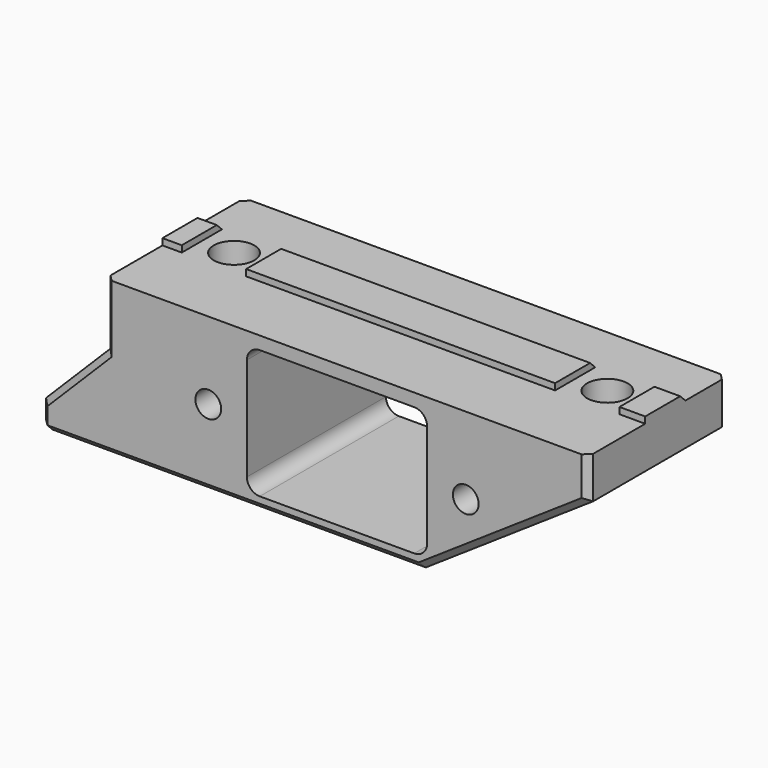
from build123d import *

# Parameters (mm, degrees)
BOX007_W          = 10
BOX007_H          = 10
BOX007_DEPTH      = 10
BOX008_W          = 10
BOX008_H          = 10
BOX008_DEPTH      = 10
CYLINDER003_R     = 1.6
CYLINDER003_DEPTH = 30
CYLINDER002_R     = 1.6
CYLINDER002_DEPTH = 30
CYLINDER001_R     = 2
CYLINDER001_DEPTH = 7
CYLINDER_R        = 2
CYLINDER_DEPTH    = 7
BOX_W             = 28
BOX_H             = 30
BOX_DEPTH         = 20
FILLET_R          = 2
CYLINDER005_R     = 3.15
CYLINDER005_DEPTH = 30
CYLINDER004_R     = 6
CYLINDER004_DEPTH = 8
CYLINDER007_R     = 6
CYLINDER007_DEPTH = 21
CYLINDER006_R     = 3.15
CYLINDER006_DEPTH = 30
BOX003_W          = 75
BOX003_H          = 27
BOX003_DEPTH      = 24
CHAMFER002_SIZE2  = 26
CHAMFER002_SIZE   = 17.5
BOX004_W          = 11
BOX004_H          = 27
BOX004_DEPTH      = 14
CHAMFER_SIZE      = 10
BOX005_W          = 75
BOX005_H          = 7.8
BOX005_DEPTH      = 2
CHAMFER003_SIZE   = 1
CHAMFER004_SIZE   = 1


with BuildPart() as cube007:
    # Box007 → Box007 (new body)
    with BuildSketch(Plane(origin=(-20, 10, 26), x_dir=(1, 0, 0), z_dir=(0, 0, 1))):
        with Locations((5, 5)):
            Rectangle(BOX007_W, BOX007_H)
    extrude(amount=BOX007_DEPTH)


with BuildPart() as fusion002011:
    # Box008 → Box008 (new body)
    with BuildSketch(Plane(origin=(38, 10, 26), x_dir=(1, 0, 0), z_dir=(0, 0, 1))):
        with Locations((5, 5)):
            Rectangle(BOX008_W, BOX008_H)
    extrude(amount=BOX008_DEPTH)

    # Fusion002011: union Cube007
    add(cube007.part)


with BuildPart() as cylinder003:
    # Cylinder003 → Cylinder003 (new body)
    with BuildSketch(Plane(origin=(-20, 0, 17), x_dir=(1, 0, 0), z_dir=(0, 1, 0))):
        Circle(CYLINDER003_R)
    extrude(amount=CYLINDER003_DEPTH)


with BuildPart() as cylinder002:
    # Cylinder002 → Cylinder002 (new body)
    with BuildSketch(Plane(origin=(20, 0, 17), x_dir=(1, 0, 0), z_dir=(0, 1, 0))):
        Circle(CYLINDER002_R)
    extrude(amount=CYLINDER002_DEPTH)


with BuildPart() as cylinder001:
    # Cylinder001 → Cylinder001 (new body)
    with BuildSketch(Plane(origin=(20, 0, 17), x_dir=(1, 0, 0), z_dir=(0, 1, 0))):
        Circle(CYLINDER001_R)
    extrude(amount=CYLINDER001_DEPTH)


with BuildPart() as cylinder:
    # Cylinder → Cylinder (new body)
    with BuildSketch(Plane(origin=(-20, 0, 17), x_dir=(1, 0, 0), z_dir=(0, 1, 0))):
        Circle(CYLINDER_R)
    extrude(amount=CYLINDER_DEPTH)


with BuildPart() as plug_slot:
    # Box → Box (new body)
    with BuildSketch(Plane(origin=(-14, 0, 7), x_dir=(1, 0, 0), z_dir=(0, 0, 1))):
        with Locations((14, 15)):
            Rectangle(BOX_W, BOX_H)
    extrude(amount=BOX_DEPTH)

    # Fillet
    fillet_edges = [plug_slot.edges().sort_by_distance(p)[0] for p in [
        (-14, 15, 27),
        (-14, 15, 7),
        (14, 15, 27),
        (14, 15, 7),
    ]]
    fillet(fillet_edges, radius=FILLET_R)

    # Fusion: union Cylinder003, Cylinder002, Cylinder001, Cylinder
    add(cylinder003.part)
    add(cylinder002.part)
    add(cylinder001.part)
    add(cylinder.part)


with BuildPart() as plug_slot_1:
    # Fusion placement: moved
    add(plug_slot.part.moved(Location((13, 0, -3))))


with BuildPart() as cylinder005:
    # Cylinder005 → Cylinder005 (new body)
    with BuildSketch(Plane(origin=(0, 15, 0), x_dir=(1, 0, 0), z_dir=(0, 0, 1))):
        Circle(CYLINDER005_R)
    extrude(amount=CYLINDER005_DEPTH)


with BuildPart() as fusion002009:
    # Cylinder004 → Cylinder004 (new body)
    with BuildSketch(Plane(origin=(0, 15, 0), x_dir=(1, 0, 0), z_dir=(0, 0, 1))):
        Circle(CYLINDER004_R)
    extrude(amount=CYLINDER004_DEPTH)

    # Fusion002009: union Cylinder005
    add(cylinder005.part)


with BuildPart() as fusion002009_1:
    # Fusion002009 placement: moved
    add(fusion002009.part.moved(Location((-15, 0, 0))))


with BuildPart() as cylinder007:
    # Cylinder007 → Cylinder007 (new body)
    with BuildSketch(Plane(origin=(43, 15, 0), x_dir=(1, 0, 0), z_dir=(0, 0, 1))):
        Circle(CYLINDER007_R)
    extrude(amount=CYLINDER007_DEPTH)


with BuildPart() as fusion002010:
    # Cylinder006 → Cylinder006 (new body)
    with BuildSketch(Plane(origin=(43, 15, 0), x_dir=(1, 0, 0), z_dir=(0, 0, 1))):
        Circle(CYLINDER006_R)
    extrude(amount=CYLINDER006_DEPTH)

    # Fusion002005: union Cylinder007
    add(cylinder007.part)

    # Fusion002010: union Fusion002009
    add(fusion002009_1.part)


with BuildPart() as chamfer002:
    # Box003 → Box003 (new body)
    with BuildSketch(Plane(origin=(-23, 0, 2), x_dir=(1, 0, 0), z_dir=(0, 0, 1))):
        with Locations((37.5, 13.5)):
            Rectangle(BOX003_W, BOX003_H)
    extrude(amount=BOX003_DEPTH)

    # Chamfer002
    chamfer002_edges = [chamfer002.edges().sort_by_distance(p)[0] for p in [
        (52, 13.5, 2),
    ]]
    chamfer002_side = chamfer002.faces().sort_by_distance((52, 13.5, 14))[0]
    chamfer(chamfer002_edges, length=CHAMFER002_SIZE, length2=CHAMFER002_SIZE2, reference=chamfer002_side)


with BuildPart() as chamfer_body:
    # Box004 → Box004 (new body)
    with BuildSketch(Plane(origin=(-33, 0, 2), x_dir=(1, 0, 0), z_dir=(0, 0, 1))):
        with Locations((5.5, 13.5)):
            Rectangle(BOX004_W, BOX004_H)
    extrude(amount=BOX004_DEPTH)

    # Chamfer
    chamfer_edges = [chamfer_body.edges().sort_by_distance(p)[0] for p in [
        (-33, 13.5, 16),
    ]]
    chamfer(chamfer_edges, length=CHAMFER_SIZE)


with BuildPart() as cut008004003004014002002008002001:
    # Box005 → Box005 (new body)
    with BuildSketch(Plane(origin=(-23, 11.1, 25), x_dir=(1, 0, 0), z_dir=(0, 0, 1))):
        with Locations((37.5, 3.9)):
            Rectangle(BOX005_W, BOX005_H)
    extrude(amount=BOX005_DEPTH)

    # Chamfer003
    chamfer003_edges = [cut008004003004014002002008002001.edges().sort_by_distance(p)[0] for p in [
        (14.5, 18.9, 27),
    ]]
    chamfer(chamfer003_edges, length=CHAMFER003_SIZE)

    # Fusion002008: union Chamfer002, Chamfer body
    add(chamfer002.part)
    add(chamfer_body.part)

    # Cut: cut Fusion002010
    add(fusion002010.part, mode=Mode.SUBTRACT)

    # Cut008004003004014002002008: cut plug-slot
    add(plug_slot_1.part, mode=Mode.SUBTRACT)

    # Chamfer004
    chamfer004_edges = [cut008004003004014002002008002001.edges().sort_by_distance(p)[0] for p in [
        (39, 0, 10.75),
        (39, 27, 10.75),
        (-23, 27, 21),
        (-23, 0, 21),
        (-28, 0, 11),
        (-28, 27, 11),
        (-33, 0, 4),
        (-33, 13.5, 2),
        (-33, 27, 4),
        (52, 0, 22.75),
        (52, 27, 22.75),
        (-3.5, 27, 2),
        (-3.5, 0, 2),
    ]]
    chamfer(chamfer004_edges, length=CHAMFER004_SIZE)

    # Cut008004003004014002002008002: cut Fusion002011
    add(fusion002011.part, mode=Mode.SUBTRACT)


solid = cut008004003004014002002008002001.part
